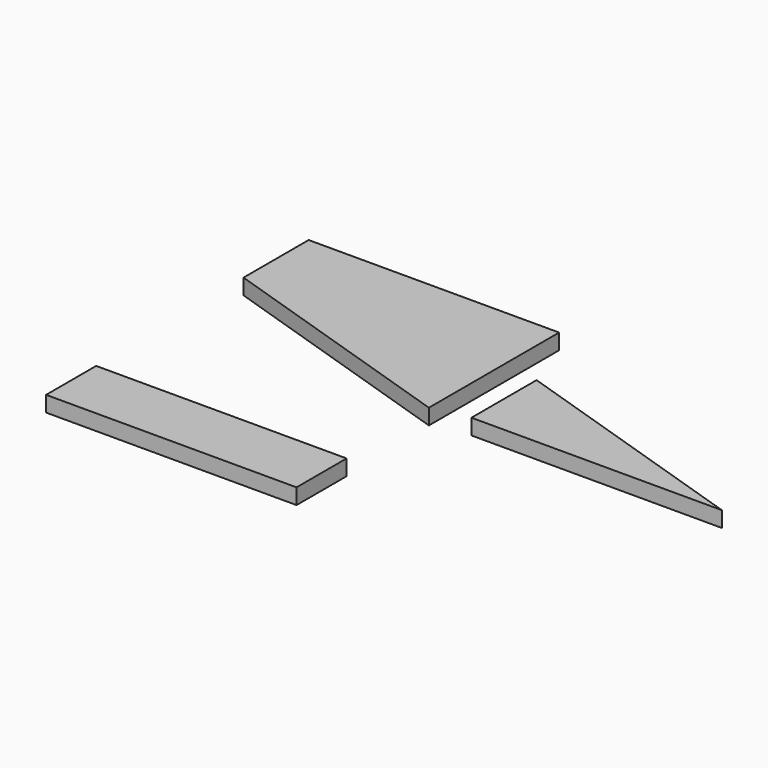
from build123d import *

# Parameters (mm, degrees)
F0_W     = 400
F0_H     = 100
F1_DEPTH = 25


with BuildPart() as f1:
    # F0 (on Top) → F1 (new body)
    with BuildSketch(Plane.XY):
        with Locations((-102.372136, -265.915458)):
            Rectangle(F0_W, F0_H)
        Polygon((92.12827, 215.124331), (-307.87173, 215.124331), (-307.87173, 85.124331), (92.12827, -44.875669), align=None)
        Polygon((150.468599, 97.239818), (150.468599, -32.760182), (550.468599, -32.760182), align=None)
    extrude(amount=F1_DEPTH)


solid = f1.part
